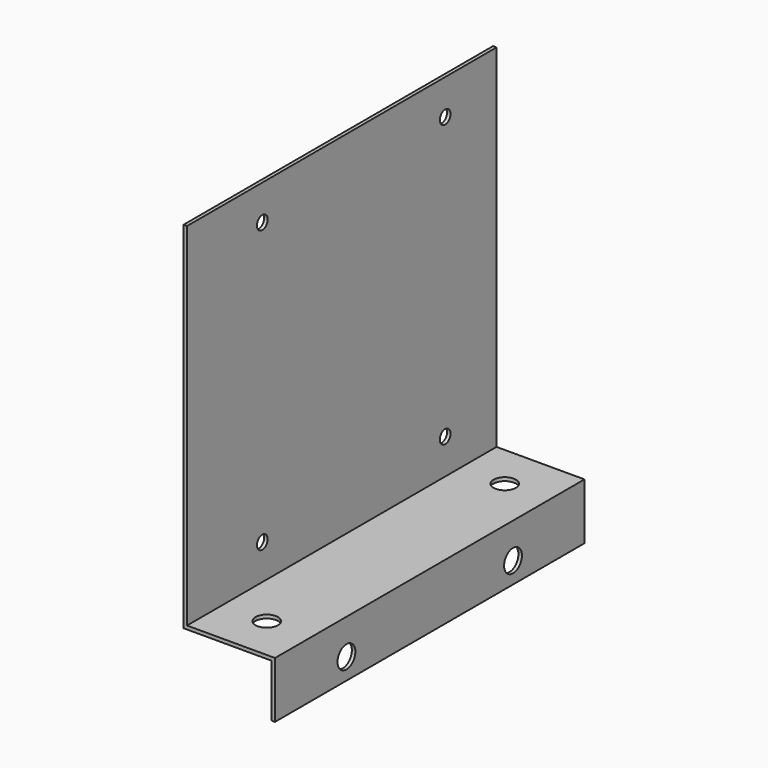
from build123d import *

# Parameters (mm, degrees)
F1_DEPTH = 220
F3_D     = 12.7
F5_D     = 7.62
F7_D     = 12.7


with BuildPart() as f1:
    # F0 (on Front) → F1 (new body)
    with BuildSketch(Plane.XZ):
        Polygon((0, 0), (0, -30), (2, -30), (2, 2), (-48, 2), (-48, 202), (-50, 202), (-50, 0), align=None)
    extrude(amount=F1_DEPTH)

    # F3 (through all)
    with Locations(Plane.YZ.offset(2)):
        with Locations((-169.2, -18.051046), (-50.8, -18.051046)):
            Hole(F3_D / 2)

    # F5 (through all)
    with Locations(Plane.YZ.offset(-48)):
        with Locations((-166.5, 182), (-36.5, 182), (-36.5, 22), (-166.5, 22)):
            Hole(F5_D / 2)

    # F7 (through all)
    with Locations(Plane.XY.offset(2)):
        with Locations((-23, -25.4), (-23, -194.6)):
            Hole(F7_D / 2)


solid = f1.part
